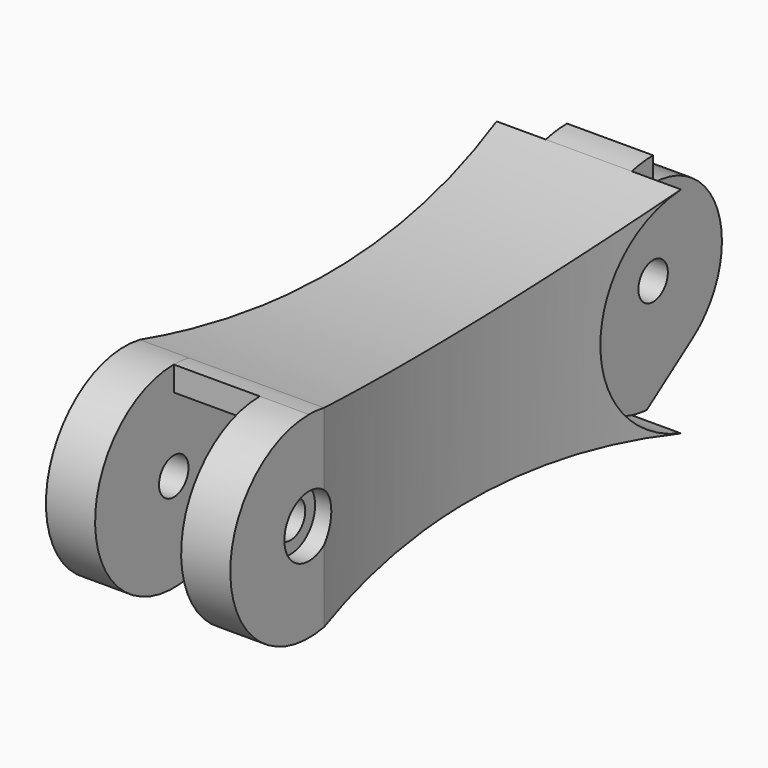
from build123d import *

# Parameters (mm, degrees)
F1_DEPTH  = 4
F3_DEPTH  = 7
F5_DEPTH  = 4
F6_R      = 9
F7_DEPTH  = 4
F8_R      = 9
F9_DEPTH  = 4
F10_R     = 2.5
F11_DEPTH = 1.5
F12_R     = 93.772443
F13_DEPTH = 12.5
F14_R     = 1.5
F15_DEPTH = 11.001
F16_R     = 1.5
F17_DEPTH = 15.001
F18_R     = 2.5
F19_DEPTH = 1.5
F21_DEPTH = 11.001


with BuildPart() as f1:
    # F0 (on Right) → F1 (new body)
    with BuildSketch(Plane.YZ):
        with BuildLine():
            ThreePointArc((37.834946, 8.735705), (19.737718, 6.302024), (1.543294, 7.849729))
            ThreePointArc((1.543294, 7.849729), (-8, 0), (1.543294, -7.849729))
            ThreePointArc((1.543294, -7.849729), (19.737718, -6.302024), (37.834946, -8.735705))
            ThreePointArc((37.834946, -8.735705), (49, 0), (37.834946, 8.735705))
        make_face()
    extrude(amount=F1_DEPTH)

    # F2 (on face) → F3 (join)
    with BuildSketch(Plane.YZ.offset(4)):
        with BuildLine():
            ThreePointArc((13.623219, -6.376131), (25.815239, -6.671862), (37.834946, -8.735705))
            ThreePointArc((37.834946, -8.735705), (49, 0), (37.834946, 8.735705))
            ThreePointArc((37.834946, 8.735705), (19.737718, 6.302024), (1.543294, 7.849729))
            ThreePointArc((1.543294, 7.849729), (0.775296, 7.962344), (0, 8))
            Line((0, 8), (0, 6))
            ThreePointArc((0, 6), (2.468627, 5.468627), (4.5, 3.968627))
            Line((4.5, 3.968627), (13.623219, -6.376131))
        make_face()
    extrude(amount=F3_DEPTH)

    # F4 (on face) → F5 (join)
    with BuildSketch(Plane.YZ.offset(11)):
        with BuildLine():
            ThreePointArc((37.834946, 8.735705), (19.737718, 6.302024), (1.543294, 7.849729))
            ThreePointArc((1.543294, 7.849729), (0.775296, 7.962344), (0, 8))
            ThreePointArc((0, 8), (-7.962344, -0.775296), (1.543294, -7.849729))
            ThreePointArc((1.543294, -7.849729), (7.556447, -6.893156), (13.623219, -6.376131))
            ThreePointArc((13.623219, -6.376131), (25.815239, -6.671862), (37.834946, -8.735705))
            ThreePointArc((37.834946, -8.735705), (49, 0), (37.834946, 8.735705))
        make_face()
    extrude(amount=F5_DEPTH)

    # F6 (on face) → F7 (cut)
    with BuildSketch(Plane.YZ.offset(15)):
        with Locations((40, 0)):
            Circle(F6_R)
    extrude(amount=-F7_DEPTH, mode=Mode.SUBTRACT)

    # F8 (on face) → F9 (cut)
    with BuildSketch(Plane(origin=(0, 0, 0), x_dir=(0, -1, 0), z_dir=(-1, 0, 0))):
        with Locations((-40, 0)):
            Circle(F8_R)
    extrude(amount=-F9_DEPTH, mode=Mode.SUBTRACT)

    # F10 (on face) → F11 (cut)
    with BuildSketch(Plane(origin=(0, 0, 0), x_dir=(0, -1, 0), z_dir=(-1, 0, 0))):
        Circle(F10_R)
    extrude(amount=-F11_DEPTH, mode=Mode.SUBTRACT)

    # F12 (on Top) → F13 (cut, symmetric)
    with BuildSketch(Plane.XY):
        with Locations((-92, 19.68912)):
            Circle(F12_R)
        with Locations((107, 19.68912)):
            Circle(F12_R)
    extrude(amount=F13_DEPTH, both=True, mode=Mode.SUBTRACT)

    # F14 (on face) → F15 (cut, through all)
    with BuildSketch(Plane.YZ.offset(11)):
        with Locations((40, 0)):
            Circle(F14_R)
    extrude(amount=-F15_DEPTH, mode=Mode.SUBTRACT)

    # F16 (on face) → F17 (cut, through all)
    with BuildSketch(Plane.YZ.offset(15)):
        Circle(F16_R)
    extrude(amount=-F17_DEPTH, mode=Mode.SUBTRACT)

    # F18 (on face) → F19 (cut)
    with BuildSketch(Plane.YZ.offset(15)):
        Circle(F18_R)
    extrude(amount=-F19_DEPTH, mode=Mode.SUBTRACT)

    # F20 (on face) → F21 (cut, through all)
    with BuildSketch(Plane.YZ.offset(11)):
        with BuildLine():
            ThreePointArc((40, 7), (46.67877, 2.096194), (44, -5.744563))
            Line((44, -5.744563), (39.357692, -8.977051))
            ThreePointArc((39.357692, -8.977051), (48.994261, -0.321359), (40, 9))
            Line((40, 9), (40, 7))
        make_face()
    extrude(amount=-F21_DEPTH, mode=Mode.SUBTRACT)


solid = f1.part
